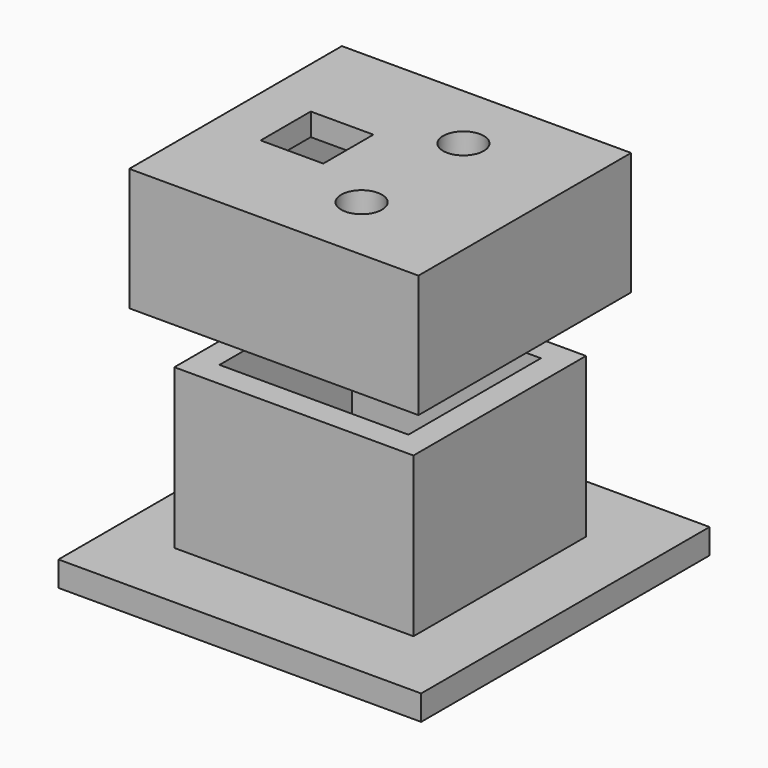
from build123d import *

# Parameters (mm, degrees)
F0_W      = 19.08
F0_H      = 17.21
F0_W_2    = 15.08
F0_H_2    = 13.21
F1_DEPTH  = 12.7
F3_W      = 23.08
F3_H      = 21.21
F3_W_2    = 19.08
F3_H_2    = 17.21
F4_DEPTH  = 8
F5_DEPTH  = 1.8
F6_W      = 5
F6_H      = 5
F6_R      = 1.625
F7_DEPTH  = 1.8
F8_W      = 28.9459526539
F8_H      = 28.7711434066
F9_DEPTH  = 2
F11_W     = 11.08
F11_H     = 13.21
F12_DEPTH = 2


with BuildPart() as f1:
    # F0 (on Top) → F1 (new body)
    with BuildSketch(Plane.XY):
        with Locations((7.54, -6.605)):
            Rectangle(F0_W, F0_H)
        with Locations((7.54, -6.605)):
            Rectangle(F0_W_2, F0_H_2, mode=Mode.SUBTRACT)
    extrude(amount=F1_DEPTH)

    # F8 (on Top) → F9 (join)
    with BuildSketch(Plane.XY):
        with Locations((7.8014414757, -6.5501015633)):
            Rectangle(F8_W, F8_H)
    extrude(amount=-F9_DEPTH)

    # F11 (on face) → F12 (cut, through all)
    with BuildSketch(Plane(origin=(0, 0, -2), x_dir=(1, 0, 0), z_dir=(0, 0, -1))):
        with Locations((9.54, 6.605)):
            Rectangle(F11_W, F11_H)
    extrude(amount=-F12_DEPTH, mode=Mode.SUBTRACT)


with BuildPart() as f4:
    # F3 (on offset) → F4 (new body)
    with BuildSketch(Plane.XY.offset(25)):
        with Locations((7.54, -6.605)):
            Rectangle(F3_W, F3_H)
        with Locations((7.54, -6.605)):
            Rectangle(F3_W_2, F3_H_2, mode=Mode.SUBTRACT)
    extrude(amount=-F4_DEPTH)

    # F3 (on offset) → F5 (join)
    with BuildSketch(Plane.XY.offset(25)):
        with Locations((7.54, -6.605)):
            Rectangle(F3_W, F3_H)
        with Locations((7.54, -6.605)):
            Rectangle(F3_W_2, F3_H_2, mode=Mode.SUBTRACT)
        with Locations((7.54, -6.605)):
            Rectangle(F3_W_2, F3_H_2)
    extrude(amount=F5_DEPTH)

    # F6 (on face) → F7 (cut, through all)
    with BuildSketch(Plane.XY.offset(25)):
        with Locations((2.5, -6.605)):
            Rectangle(F6_W, F6_H)
        with Locations((10.12, -11.685)):
            Circle(F6_R)
        with Locations((10.12, -1.525)):
            Circle(F6_R)
    extrude(amount=F7_DEPTH, mode=Mode.SUBTRACT)


solid = Compound([f1.part, f4.part])
